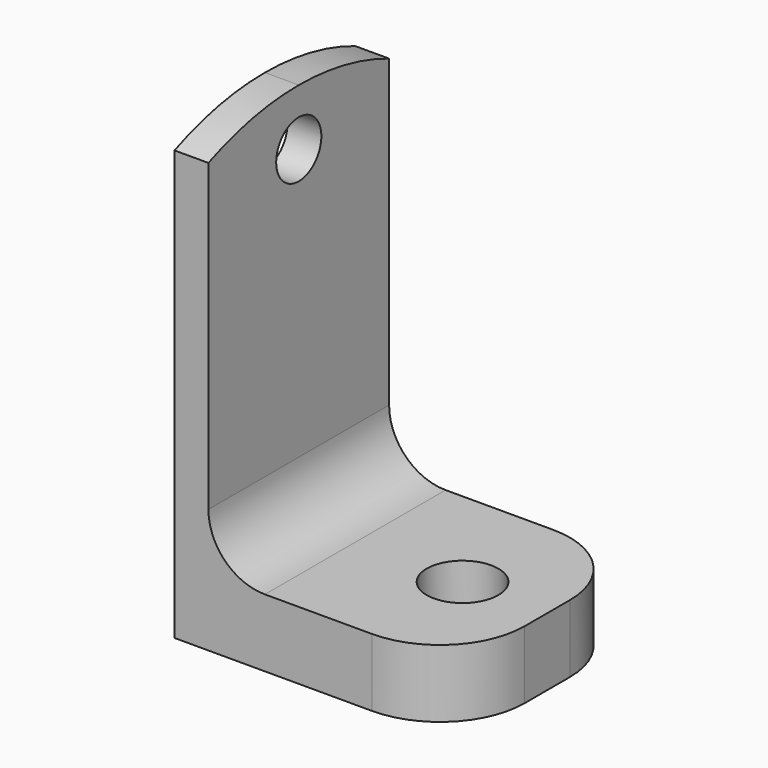
from build123d import *

# Parameters (mm, degrees)
F1_DEPTH  = 20
F2_R      = 10
F3_R      = 6.35
F4_DEPTH  = 80.001
F6_D      = 5.4102
F6_DEPTH  = 12
F6_TIP    = 1.6253880605
F7_R      = 5
F8_DEPTH  = 50.001
F9_R      = 2.5
F10_DEPTH = 5
F11_R     = 0.5
F12_R     = 15


with BuildPart() as f1:
    # F0 (on Front) → F1 (new body, symmetric)
    with BuildSketch(Plane.XZ):
        Polygon((0, 80), (0, 0), (50, 0), (50, 12), (6, 12), (6, 80), align=None)
    extrude(amount=F1_DEPTH, both=True)

    # F2
    f2_edges = [f1.edges().sort_by_distance(p)[0] for p in [
        (6, 0, 12),
    ]]
    fillet(f2_edges, radius=F2_R)

    # F3 (on face) → F4 (cut, through all)
    with BuildSketch(Plane(origin=(0, 0, 0), x_dir=(1, 0, 0), z_dir=(0, 0, -1))):
        with Locations((35, 0)):
            Circle(F3_R)
    extrude(amount=-F4_DEPTH, mode=Mode.SUBTRACT)

    # F6
    with Locations(Plane(origin=(0, 0, 0), x_dir=(0, -1, 0), z_dir=(-1, 0, 0))):
        with Locations((0, 6)):
            Hole(F6_D / 2, depth=F6_DEPTH)
            with Locations((0, 0, -(F6_DEPTH + F6_TIP / 2))):  # 118° drill point
                Cone(0, F6_D / 2, F6_TIP, mode=Mode.SUBTRACT)

    # F7 (on face) → F8 (cut, through all)
    with BuildSketch(Plane(origin=(0, 0, 0), x_dir=(0, -1, 0), z_dir=(-1, 0, 0))):
        with BuildLine():
            ThreePointArc((-20, 76), (-10.1980390272, 78.9901951359), (0, 80))
            Line((0, 80), (-20, 80))
            Line((-20, 80), (-20, 76))
        make_face()
        with BuildLine():
            ThreePointArc((0, 80), (10.1980390272, 78.9901951359), (20, 76))
            Line((20, 76), (20, 80))
            Line((20, 80), (0, 80))
        make_face()
        with Locations((0, 70)):
            Circle(F7_R)
    extrude(amount=-F8_DEPTH, mode=Mode.SUBTRACT)

    # F9 (on face) → F10 (join)
    with BuildSketch(Plane(origin=(0, 0, 0), x_dir=(0, -1, 0), z_dir=(-1, 0, 0))):
        with Locations((0, 40)):
            Circle(F9_R)
    extrude(amount=F10_DEPTH)

    # F11
    f11_edges = [f1.edges().sort_by_distance(p)[0] for p in [
        (0, 2.5, 40),
        (-5, 2.5, 40),
    ]]
    fillet(f11_edges, radius=F11_R)

    # F12
    f12_edges = [f1.edges().sort_by_distance(p)[0] for p in [
        (50, -20, 6),
        (50, 20, 6),
    ]]
    fillet(f12_edges, radius=F12_R)


solid = f1.part
